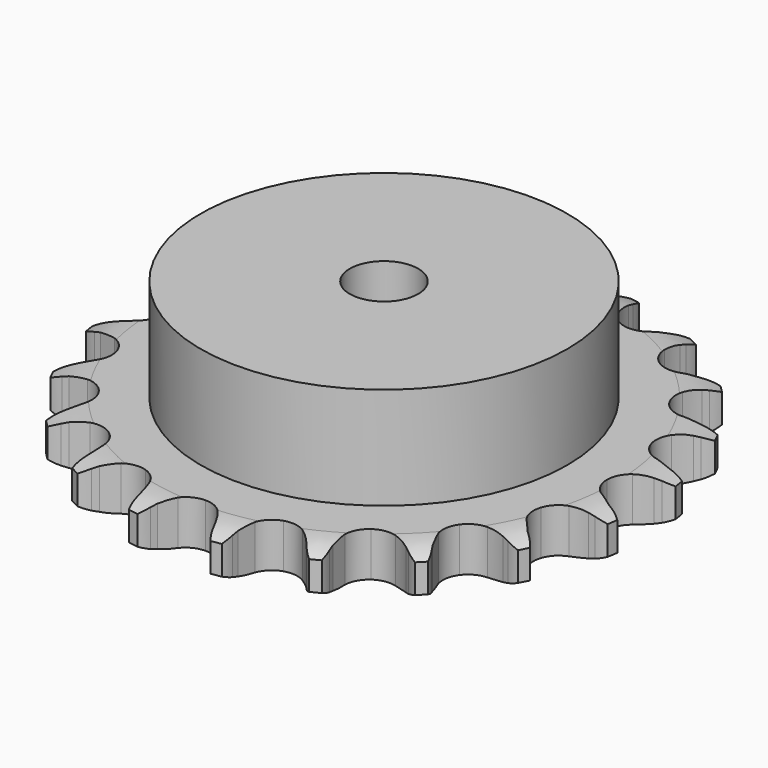
from build123d import *

# Parameters (mm, degrees)
PAD_DEPTH         = 9.1
SKETCH001_R       = 37.5
PAD001_DEPTH      = 30
SKETCH002_R       = 7
POCKET_DEPTH      = 0.001
POCKET_DEPTH_BACK = -30.001


with BuildPart() as part:
    # Sprocket → Pad (new body)
    with BuildSketch(Plane.XY):
        with BuildLine():
            ThreePointArc((-8.707919, 54.979639), (-7.318424, 53.516846), (-6.318533, 51.764512))
            Line((-6.318533, 51.764512), (-5.829555, 50.601281))
            ThreePointArc((-5.829555, 50.601281), (-5.041899, 49.028367), (-4.053133, 47.573443))
            ThreePointArc((-4.053133, 47.573443), (-2.254762, 46.11715), (0, 45.596597))
            ThreePointArc((0, 45.596597), (2.254762, 46.11715), (4.053133, 47.573443))
            ThreePointArc((4.053133, 47.573443), (5.041899, 49.028367), (5.829555, 50.601281))
            Line((5.829555, 50.601281), (6.318533, 51.764512))
            ThreePointArc((6.318533, 51.764512), (7.318424, 53.516846), (8.707919, 54.979639))
            ThreePointArc((8.707919, 54.979639), (9.57738, 53.159063), (9.986832, 51.18351))
            Line((9.986832, 51.18351), (10.092419, 49.92611))
            ThreePointArc((10.092419, 49.92611), (10.355468, 48.18678), (10.846243, 46.49752))
            ThreePointArc((10.846243, 46.49752), (12.106577, 44.556776), (14.090123, 43.364941))
            ThreePointArc((14.090123, 43.364941), (16.395389, 43.163257), (18.555761, 43.992546))
            Line((18.555761, 43.992546), (21.180892, 46.323246))
            ThreePointArc((21.180892, 46.323246), (21.581785, 46.810649), (22.005396, 47.278442))
            ThreePointArc((22.005396, 47.278442), (23.49785, 48.636028), (25.271366, 49.597849))
            ThreePointArc((25.271366, 49.597849), (25.535683, 47.5977), (25.314616, 45.59231))
            Line((25.314616, 45.59231), (25.026477, 44.363823))
            ThreePointArc((25.026477, 44.363823), (24.739169, 42.628336), (24.683914, 40.870096))
            ThreePointArc((24.683914, 40.870096), (25.28284, 38.634874), (26.801008, 36.888422))
            ThreePointArc((26.801008, 36.888422), (28.931122, 35.984242), (31.242022, 36.105352))
            Line((31.242022, 36.105352), (34.458896, 37.510769))
            ThreePointArc((34.458896, 37.510769), (34.990784, 37.850434), (35.538217, 38.164429))
            ThreePointArc((35.538217, 38.164429), (37.377143, 38.994376), (39.361076, 39.361076))
            ThreePointArc((39.361076, 39.361076), (38.994376, 37.377143), (38.164429, 35.538217))
            Line((38.164429, 35.538217), (37.510769, 34.458896))
            ThreePointArc((37.510769, 34.458896), (36.701228, 32.897133), (36.105352, 31.242022))
            ThreePointArc((36.105352, 31.242022), (35.984242, 28.931122), (36.888422, 26.801008))
            ThreePointArc((36.888422, 26.801008), (38.634874, 25.28284), (40.870096, 24.683914))
            Line((40.870096, 24.683914), (44.363823, 25.026477))
            ThreePointArc((44.363823, 25.026477), (44.97464, 25.185155), (45.59231, 25.314616))
            ThreePointArc((45.59231, 25.314616), (47.5977, 25.535683), (49.597849, 25.271366))
            ThreePointArc((49.597849, 25.271366), (48.636028, 23.49785), (47.278442, 22.005396))
            Line((47.278442, 22.005396), (46.323246, 21.180892))
            ThreePointArc((46.323246, 21.180892), (45.070715, 19.945729), (43.992546, 18.555761))
            ThreePointArc((43.992546, 18.555761), (43.163257, 16.395389), (43.364941, 14.090123))
            ThreePointArc((43.364941, 14.090123), (44.556776, 12.106577), (46.49752, 10.846243))
            Line((46.49752, 10.846243), (49.92611, 10.092419))
            ThreePointArc((49.92611, 10.092419), (50.556066, 10.054578), (51.18351, 9.986832))
            ThreePointArc((51.18351, 9.986832), (53.159063, 9.57738), (54.979639, 8.707919))
            ThreePointArc((54.979639, 8.707919), (53.516846, 7.318424), (51.764512, 6.318533))
            Line((51.764512, 6.318533), (50.601281, 5.829555))
            ThreePointArc((50.601281, 5.829555), (49.028367, 5.041899), (47.573443, 4.053133))
            ThreePointArc((47.573443, 4.053133), (46.11715, 2.254762), (45.596597, 0))
            ThreePointArc((45.596597, 0), (46.11715, -2.254762), (47.573443, -4.053133))
            Line((47.573443, -4.053133), (50.601281, -5.829555))
            ThreePointArc((50.601281, -5.829555), (51.188711, -6.060212), (51.764512, -6.318533))
            ThreePointArc((51.764512, -6.318533), (53.516846, -7.318424), (54.979639, -8.707919))
            ThreePointArc((54.979639, -8.707919), (53.159063, -9.57738), (51.18351, -9.986832))
            Line((51.18351, -9.986832), (49.92611, -10.092419))
            ThreePointArc((49.92611, -10.092419), (48.18678, -10.355468), (46.49752, -10.846243))
            ThreePointArc((46.49752, -10.846243), (44.556776, -12.106577), (43.364941, -14.090123))
            ThreePointArc((43.364941, -14.090123), (43.163257, -16.395389), (43.992546, -18.555761))
            Line((43.992546, -18.555761), (46.323246, -21.180892))
            ThreePointArc((46.323246, -21.180892), (46.810649, -21.581785), (47.278442, -22.005396))
            ThreePointArc((47.278442, -22.005396), (48.636028, -23.49785), (49.597849, -25.271366))
            ThreePointArc((49.597849, -25.271366), (47.5977, -25.535683), (45.59231, -25.314616))
            Line((45.59231, -25.314616), (44.363823, -25.026477))
            ThreePointArc((44.363823, -25.026477), (42.628336, -24.739169), (40.870096, -24.683914))
            ThreePointArc((40.870096, -24.683914), (38.634874, -25.28284), (36.888422, -26.801008))
            ThreePointArc((36.888422, -26.801008), (35.984242, -28.931122), (36.105352, -31.242022))
            Line((36.105352, -31.242022), (37.510769, -34.458896))
            ThreePointArc((37.510769, -34.458896), (37.850434, -34.990784), (38.164429, -35.538217))
            ThreePointArc((38.164429, -35.538217), (38.994376, -37.377143), (39.361076, -39.361076))
            ThreePointArc((39.361076, -39.361076), (37.377143, -38.994376), (35.538217, -38.164429))
            Line((35.538217, -38.164429), (34.458896, -37.510769))
            ThreePointArc((34.458896, -37.510769), (32.897133, -36.701228), (31.242022, -36.105352))
            ThreePointArc((31.242022, -36.105352), (28.931122, -35.984242), (26.801008, -36.888422))
            ThreePointArc((26.801008, -36.888422), (25.28284, -38.634874), (24.683914, -40.870096))
            Line((24.683914, -40.870096), (25.026477, -44.363823))
            ThreePointArc((25.026477, -44.363823), (25.185155, -44.97464), (25.314616, -45.59231))
            ThreePointArc((25.314616, -45.59231), (25.535683, -47.5977), (25.271366, -49.597849))
            ThreePointArc((25.271366, -49.597849), (23.49785, -48.636028), (22.005396, -47.278442))
            Line((22.005396, -47.278442), (21.180892, -46.323246))
            ThreePointArc((21.180892, -46.323246), (19.945729, -45.070715), (18.555761, -43.992546))
            ThreePointArc((18.555761, -43.992546), (16.395389, -43.163257), (14.090123, -43.364941))
            ThreePointArc((14.090123, -43.364941), (12.106577, -44.556776), (10.846243, -46.49752))
            Line((10.846243, -46.49752), (10.092419, -49.92611))
            ThreePointArc((10.092419, -49.92611), (10.054578, -50.556066), (9.986832, -51.18351))
            ThreePointArc((9.986832, -51.18351), (9.57738, -53.159063), (8.707919, -54.979639))
            ThreePointArc((8.707919, -54.979639), (7.318424, -53.516846), (6.318533, -51.764512))
            Line((6.318533, -51.764512), (5.829555, -50.601281))
            ThreePointArc((5.829555, -50.601281), (5.041899, -49.028367), (4.053133, -47.573443))
            ThreePointArc((4.053133, -47.573443), (2.254762, -46.11715), (0, -45.596597))
            ThreePointArc((0, -45.596597), (-2.254762, -46.11715), (-4.053133, -47.573443))
            Line((-4.053133, -47.573443), (-5.829555, -50.601281))
            ThreePointArc((-5.829555, -50.601281), (-6.060212, -51.188711), (-6.318533, -51.764512))
            ThreePointArc((-6.318533, -51.764512), (-7.318424, -53.516846), (-8.707919, -54.979639))
            ThreePointArc((-8.707919, -54.979639), (-9.57738, -53.159063), (-9.986832, -51.18351))
            Line((-9.986832, -51.18351), (-10.092419, -49.92611))
            ThreePointArc((-10.092419, -49.92611), (-10.355468, -48.18678), (-10.846243, -46.49752))
            ThreePointArc((-10.846243, -46.49752), (-12.106577, -44.556776), (-14.090123, -43.364941))
            ThreePointArc((-14.090123, -43.364941), (-16.395389, -43.163257), (-18.555761, -43.992546))
            Line((-18.555761, -43.992546), (-21.180892, -46.323246))
            ThreePointArc((-21.180892, -46.323246), (-21.581785, -46.810649), (-22.005396, -47.278442))
            ThreePointArc((-22.005396, -47.278442), (-23.49785, -48.636028), (-25.271366, -49.597849))
            ThreePointArc((-25.271366, -49.597849), (-25.535683, -47.5977), (-25.314616, -45.59231))
            Line((-25.314616, -45.59231), (-25.026477, -44.363823))
            ThreePointArc((-25.026477, -44.363823), (-24.739169, -42.628336), (-24.683914, -40.870096))
            ThreePointArc((-24.683914, -40.870096), (-25.28284, -38.634874), (-26.801008, -36.888422))
            ThreePointArc((-26.801008, -36.888422), (-28.931122, -35.984242), (-31.242022, -36.105352))
            Line((-31.242022, -36.105352), (-34.458896, -37.510769))
            ThreePointArc((-34.458896, -37.510769), (-34.990784, -37.850434), (-35.538217, -38.164429))
            ThreePointArc((-35.538217, -38.164429), (-37.377143, -38.994376), (-39.361076, -39.361076))
            ThreePointArc((-39.361076, -39.361076), (-38.994376, -37.377143), (-38.164429, -35.538217))
            Line((-38.164429, -35.538217), (-37.510769, -34.458896))
            ThreePointArc((-37.510769, -34.458896), (-36.701228, -32.897133), (-36.105352, -31.242022))
            ThreePointArc((-36.105352, -31.242022), (-35.984242, -28.931122), (-36.888422, -26.801008))
            ThreePointArc((-36.888422, -26.801008), (-38.634874, -25.28284), (-40.870096, -24.683914))
            Line((-40.870096, -24.683914), (-44.363823, -25.026477))
            ThreePointArc((-44.363823, -25.026477), (-44.97464, -25.185155), (-45.59231, -25.314616))
            ThreePointArc((-45.59231, -25.314616), (-47.5977, -25.535683), (-49.597849, -25.271366))
            ThreePointArc((-49.597849, -25.271366), (-48.636028, -23.49785), (-47.278442, -22.005396))
            Line((-47.278442, -22.005396), (-46.323246, -21.180892))
            ThreePointArc((-46.323246, -21.180892), (-45.070715, -19.945729), (-43.992546, -18.555761))
            ThreePointArc((-43.992546, -18.555761), (-43.163257, -16.395389), (-43.364941, -14.090123))
            ThreePointArc((-43.364941, -14.090123), (-44.556776, -12.106577), (-46.49752, -10.846243))
            Line((-46.49752, -10.846243), (-49.92611, -10.092419))
            ThreePointArc((-49.92611, -10.092419), (-50.556066, -10.054578), (-51.18351, -9.986832))
            ThreePointArc((-51.18351, -9.986832), (-53.159063, -9.57738), (-54.979639, -8.707919))
            ThreePointArc((-54.979639, -8.707919), (-53.516846, -7.318424), (-51.764512, -6.318533))
            Line((-51.764512, -6.318533), (-50.601281, -5.829555))
            ThreePointArc((-50.601281, -5.829555), (-49.028367, -5.041899), (-47.573443, -4.053133))
            ThreePointArc((-47.573443, -4.053133), (-46.11715, -2.254762), (-45.596597, 0))
            ThreePointArc((-45.596597, 0), (-46.11715, 2.254762), (-47.573443, 4.053133))
            Line((-47.573443, 4.053133), (-50.601281, 5.829555))
            ThreePointArc((-50.601281, 5.829555), (-51.188711, 6.060212), (-51.764512, 6.318533))
            ThreePointArc((-51.764512, 6.318533), (-53.516846, 7.318424), (-54.979639, 8.707919))
            ThreePointArc((-54.979639, 8.707919), (-53.159063, 9.57738), (-51.18351, 9.986832))
            Line((-51.18351, 9.986832), (-49.92611, 10.092419))
            ThreePointArc((-49.92611, 10.092419), (-48.18678, 10.355468), (-46.49752, 10.846243))
            ThreePointArc((-46.49752, 10.846243), (-44.556776, 12.106577), (-43.364941, 14.090123))
            ThreePointArc((-43.364941, 14.090123), (-43.163257, 16.395389), (-43.992546, 18.555761))
            Line((-43.992546, 18.555761), (-46.323246, 21.180892))
            ThreePointArc((-46.323246, 21.180892), (-46.810649, 21.581785), (-47.278442, 22.005396))
            ThreePointArc((-47.278442, 22.005396), (-48.636028, 23.49785), (-49.597849, 25.271366))
            ThreePointArc((-49.597849, 25.271366), (-47.5977, 25.535683), (-45.59231, 25.314616))
            Line((-45.59231, 25.314616), (-44.363823, 25.026477))
            ThreePointArc((-44.363823, 25.026477), (-42.628336, 24.739169), (-40.870096, 24.683914))
            ThreePointArc((-40.870096, 24.683914), (-38.634874, 25.28284), (-36.888422, 26.801008))
            ThreePointArc((-36.888422, 26.801008), (-35.984242, 28.931122), (-36.105352, 31.242022))
            Line((-36.105352, 31.242022), (-37.510769, 34.458896))
            ThreePointArc((-37.510769, 34.458896), (-37.850434, 34.990784), (-38.164429, 35.538217))
            ThreePointArc((-38.164429, 35.538217), (-38.994376, 37.377143), (-39.361076, 39.361076))
            ThreePointArc((-39.361076, 39.361076), (-37.377143, 38.994376), (-35.538217, 38.164429))
            Line((-35.538217, 38.164429), (-34.458896, 37.510769))
            ThreePointArc((-34.458896, 37.510769), (-32.897133, 36.701228), (-31.242022, 36.105352))
            ThreePointArc((-31.242022, 36.105352), (-28.931122, 35.984242), (-26.801008, 36.888422))
            ThreePointArc((-26.801008, 36.888422), (-25.28284, 38.634874), (-24.683914, 40.870096))
            Line((-24.683914, 40.870096), (-25.026477, 44.363823))
            ThreePointArc((-25.026477, 44.363823), (-25.185155, 44.97464), (-25.314616, 45.59231))
            ThreePointArc((-25.314616, 45.59231), (-25.535683, 47.5977), (-25.271366, 49.597849))
            ThreePointArc((-25.271366, 49.597849), (-23.49785, 48.636028), (-22.005396, 47.278442))
            Line((-22.005396, 47.278442), (-21.180892, 46.323246))
            ThreePointArc((-21.180892, 46.323246), (-19.945729, 45.070715), (-18.555761, 43.992546))
            ThreePointArc((-18.555761, 43.992546), (-16.395389, 43.163257), (-14.090123, 43.364941))
            ThreePointArc((-14.090123, 43.364941), (-12.106577, 44.556776), (-10.846243, 46.49752))
            Line((-10.846243, 46.49752), (-10.092419, 49.92611))
            ThreePointArc((-10.092419, 49.92611), (-10.054578, 50.556066), (-9.986832, 51.18351))
            ThreePointArc((-9.986832, 51.18351), (-9.57738, 53.159063), (-8.707919, 54.979639))
        make_face()
    extrude(amount=PAD_DEPTH)

    # Sketch → Groove (revolve, cut)
    with BuildSketch(Plane.XZ):
        with BuildLine():
            Line((47.225762, 0), (54.2, 0))
            Line((61.174238, 0), (54.2, 0))
            Line((61.174238, 9.1), (61.174238, 0))
            Line((54.2, 9.1), (61.174238, 9.1))
            Line((47.225762, 9.1), (54.2, 9.1))
            ThreePointArc((54.2, 7.5), (50.80347, 8.694871), (47.225762, 9.1))
            Line((54.2, 1.6), (54.2, 7.5))
            ThreePointArc((47.225762, 0), (50.80347, 0.405129), (54.2, 1.6))
        make_face()
    revolve(axis=Axis((0, 0, 0), (0, 0, 1)), mode=Mode.SUBTRACT)

    # Sketch001 → Pad001 (join)
    with BuildSketch(Plane.XY):
        Circle(SKETCH001_R)
    extrude(amount=PAD001_DEPTH)

    # Sketch002 → Pocket (cut, two sides)
    with BuildSketch(Plane.XY) as pocket_sk:
        Circle(SKETCH002_R)
    extrude(amount=-POCKET_DEPTH, mode=Mode.SUBTRACT)
    extrude(pocket_sk.sketch, amount=-POCKET_DEPTH_BACK, mode=Mode.SUBTRACT)


solid = part.part
